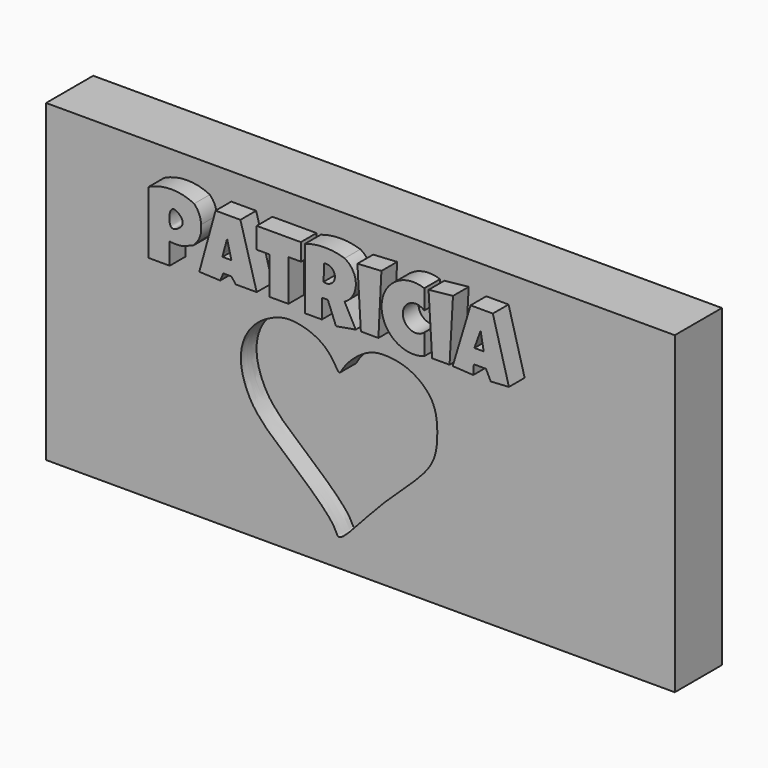
from build123d import *

# Parameters (mm, degrees)
F0_W     = 101.6
F0_H     = 50.8
F1_DEPTH = 9.525
F4_DEPTH = 3.175
F5_DEPTH = 3.175


with BuildPart() as f1:
    # F0 (on Front) → F1 (new body)
    with BuildSketch(Plane.XZ):
        with Locations((-38.6999379843, 14.3887783685)):
            Rectangle(F0_W, F0_H)
    extrude(amount=F1_DEPTH)

    # F3 (on face) + F2 (on face) → F4 (cut)
    with BuildSketch(Plane.XZ.offset(9.525)):
        with BuildLine():
            add(Edge.make_bspline(
                [(-42.0909300447, -6.5714931116), (-42.4807610896, -6.6146298176), (-42.6728355938, -4.4524287753), (-52.3789401122, 3.5382061268), (-54.5436755313, 5.6785529714), (-56.5896297361, 8.1275584369), (-58.3106042499, 12.4559638148), (-57.8488746613, 16.5301439803), (-55.9609232247, 19.218929192), (-54.0746732682, 20.6366692113), (-51.5727507412, 21.7582524777), (-49.1021273997, 21.8591405463), (-45.2526546869, 20.7508085371), (-43.0680290516, 18.4291824994), (-42.1245523865, 16.3808281575), (-41.5287440186, 17.7714615603), (-39.8380510934, 19.7470741149), (-37.2104184556, 21.5187218827), (-34.5948716342, 21.8258589817), (-30.6501668836, 21.2862711252), (-26.3794956783, 17.9351659653), (-26.1460151156, 12.5053890457), (-26.8806901132, 7.5306302148), (-35.3423253754, 0.9569661722), (-41.1792717696, -6.4706136779), (-42.0909300447, -6.5714931116)],
                knots=[0, 0, 0, 0, 0.0288960531, 0.107549476, 0.1485337662, 0.1863643241, 0.2339644945, 0.2784197131, 0.3176284008, 0.3516345561, 0.387499244, 0.4223069817, 0.4660157939, 0.5067911008, 0.5345117395, 0.5554673195, 0.5921534296, 0.6313285451, 0.6666609169, 0.7103014599, 0.7600198451, 0.809836179, 0.8571610875, 0.9324237351, 1, 1, 1, 1], degree=3))
        make_face()
    with BuildSketch(Plane.XZ.offset(9.525)):
        with BuildLine():
            ThreePointArc((-63.0340948701, 35.3532284498), (-66.712750122, 36.2098460173), (-70.3914053738, 35.3532284498))
            Line((-70.3914053738, 35.3532284498), (-70.3914053738, 25.2415314317))
            Line((-70.3914053738, 25.2415314317), (-66.9818148017, 25.2415314317))
            Line((-66.9818148017, 25.2415314317), (-66.9818148017, 28.7248265493))
            add(Edge.make_bspline(
                [(-66.9818148017, 28.7248265493), (-66.997670882, 28.7390337431), (-66.9987565917, 28.7552430796), (-66.9818148017, 28.7736989558)],
                knots=[0.6088529275, 0.6088529275, 0.6088529275, 0.6088529275, 0.6361468787, 0.6361468787, 0.6361468787, 0.6361468787], degree=3))
            add(Edge.make_bspline(
                [(-66.9818148017, 28.7736989558), (-66.7559653772, 29.0197325227), (-63.3263934979, 29.6650055844), (-63.0340948701, 29.5355394483)],
                knots=[0.6361468787, 0.6361468787, 0.6361468787, 0.6361468787, 1, 1, 1, 1], degree=3))
            ThreePointArc((-63.0340948701, 29.5355394483), (-62.0822740905, 30.9901296915), (-61.9259625673, 32.7214188874))
            ThreePointArc((-61.9259625673, 32.7214188874), (-62.2186639218, 34.1473721989), (-63.0340948701, 35.3532284498))
        make_face()
        with BuildLine():
            add(Edge.make_bspline(
                [(-66.712750122, 33.3038829267), (-67.1286849417, 32.8043568154), (-67.2116644607, 29.9890919673), (-65.160217958, 31.1745239569), (-64.6661746288, 32.1760356969), (-65.5430141226, 33.3373569707), (-66.4432822932, 33.6275062692), (-66.712750122, 33.3038829267)],
                knots=[0, 0, 0, 0, 0.2644645396, 0.466394541, 0.6364603912, 0.8286638149, 1, 1, 1, 1], degree=3))
        make_face(mode=Mode.SUBTRACT)
        with BuildLine():
            add(Edge.make_bspline(
                [(-66.9818148017, 28.7248265493), (-66.997670882, 28.7390337431), (-66.9987565917, 28.7552430796), (-66.9818148017, 28.7736989558)],
                knots=[0.6088529275, 0.6088529275, 0.6088529275, 0.6088529275, 0.6361468787, 0.6361468787, 0.6361468787, 0.6361468787], degree=3))
            Line((-66.9818148017, 28.7248265493), (-66.9818148017, 28.7736989558))
        make_face()
        with BuildLine():
            Line((-66.9818148017, 28.7736989558), (-66.9818148017, 28.7248265493))
            add(Edge.make_bspline(
                [(-63.0340948701, 29.5355394483), (-62.8455032323, 29.4520076478), (-64.8784455292, 28.7132768233), (-65.3108433974, 28.61822795), (-66.8762304273, 28.6302219785), (-66.9818148017, 28.7248265493)],
                knots=[0, 0, 0, 0, 0.2347587348, 0.4271046829, 0.6088529275, 0.6088529275, 0.6088529275, 0.6088529275], degree=3))
            add(Edge.make_bspline(
                [(-66.9818148017, 28.7736989558), (-66.7559653772, 29.0197325227), (-63.3263934979, 29.6650055844), (-63.0340948701, 29.5355394483)],
                knots=[0.6361468787, 0.6361468787, 0.6361468787, 0.6361468787, 1, 1, 1, 1], degree=3))
        make_face()
        with BuildLine():
            Line((-62.2029975057, 25.9341131896), (-58.8093437254, 25.7955957204))
            add(Edge.make_bspline(
                [(-58.8093437254, 25.7955957204), (-58.6477418741, 26.1880593995), (-58.4861400227, 26.5805230786), (-58.3245381713, 26.9729867578)],
                knots=[0, 0, 0, 0, 1.2732973259, 1.2732973259, 1.2732973259, 1.2732973259], degree=3))
            add(Edge.make_bspline(
                [(-58.3245381713, 26.9729867578), (-58.178326322, 26.9729867578), (-58.0321144727, 26.9729867578), (-57.8859026233, 26.9729867578)],
                knots=[0, 0, 0, 0, 0.438635548, 0.438635548, 0.438635548, 0.438635548], degree=3))
            add(Edge.make_bspline(
                [(-57.8859026233, 26.9729867578), (-57.5934789247, 26.9729867578), (-57.3010552261, 26.9729867578), (-57.0086315274, 26.9729867578)],
                knots=[0.438635548, 0.438635548, 0.438635548, 0.438635548, 1.3159066439, 1.3159066439, 1.3159066439, 1.3159066439], degree=3))
            Line((-57.0086315274, 26.9729867578), (-56.3127800373, 26.058562194))
            Line((-56.3127800373, 26.058562194), (-52.9223978519, 26.058562194))
            Line((-52.9223978519, 26.058562194), (-55.5542074144, 35.491745919))
            Line((-55.5542074144, 35.491745919), (-59.5711842179, 35.491745919))
            Line((-59.5711842179, 35.491745919), (-62.2029975057, 25.9341131896))
        make_face()
        Polygon((-58.3245381713, 29.834446554), (-57.701215148, 32.0980921388), (-57.0086315274, 29.2728566838), (-58.4531091154, 29.2728566838), align=None, mode=Mode.SUBTRACT)
        Polygon((-45.7940250635, 35.491745919), (-52.9223978519, 35.491745919), (-52.9223978519, 32.0980921388), (-50.8446507156, 32.0980921388), (-50.8446507156, 26.058562194), (-47.7972887456, 26.058562194), (-47.7972887456, 32.7214188874), (-45.7366742194, 32.7214188874), align=None)
        with BuildLine():
            Line((-45.0973589387, 32.7214188874), (-45.0973589387, 32.249447963))
            Line((-45.0973589387, 32.249447963), (-45.0973589387, 25.5878213793))
            Line((-45.0973589387, 25.5878213793), (-42.3951484263, 25.5878213793))
            Line((-42.3951484263, 25.5878213793), (-42.3951484263, 28.7044420838))
            Line((-42.3951484263, 28.7044420838), (-41.4255335927, 28.7044420838))
            Line((-41.4255335927, 28.7044420838), (-40.1096269488, 25.3800470382))
            Line((-40.1096269488, 25.3800470382), (-36.923751235, 25.9341131896))
            Line((-36.923751235, 25.9341131896), (-38.724463433, 29.3277651072))
            ThreePointArc((-38.724463433, 29.3277651072), (-36.8962226372, 32.4063114245), (-38.7128144503, 35.491745919))
            ThreePointArc((-38.7128144503, 35.491745919), (-41.9050866945, 36.0001631202), (-45.0973589387, 35.491745919))
            Line((-45.0973589387, 35.491745919), (-45.0973589387, 32.7214188874))
        make_face()
        with BuildLine():
            ThreePointArc((-42.0294776559, 33.6892232299), (-40.2842864848, 32.307135884), (-42.1123988926, 31.0367569327))
            Line((-42.1123988926, 31.0367569327), (-42.0294776559, 33.6892232299))
        make_face(mode=Mode.SUBTRACT)
        Polygon((-32.7682569623, 35.6302633882), (-36.64172894, 35.4057140911), (-36.0926501453, 25.9341131896), (-33.2530625165, 25.9341131896), align=None)
        with BuildLine():
            Line((-25.842435658, 32.249447963), (-25.842435658, 35.4224890471))
            ThreePointArc((-25.842435658, 35.4224890471), (-32.7464265149, 30.5709819749), (-25.7998574525, 25.7806386799))
            Line((-25.7998574525, 25.7806386799), (-25.842435658, 29.119990766))
            ThreePointArc((-25.842435658, 29.119990766), (-29.3052590166, 30.6847193645), (-25.842435658, 32.249447963))
        make_face()
        Polygon((-21.2021358311, 35.8380377293), (-25.1498539001, 35.4224890471), (-24.5957877487, 26.2111462653), (-24.5957877487, 25.864854455), (-21.7562001199, 25.864854455), align=None)
        Polygon((-18.3625482023, 35.4224890471), (-21.249768217, 25.8367194228), (-17.92419766, 25.6519659861), (-17.8378914941, 27.2054810336), (-15.8692523837, 27.2054810336), (-15.1074109599, 25.6519659861), (-12.1616536204, 25.8291545319), (-14.7611210123, 35.4224890471), align=None)
        Polygon((-17.7382381233, 29.5513621464), (-16.7399067432, 32.3629900813), (-16.2424072623, 29.5513621464), align=None, mode=Mode.SUBTRACT)
    extrude(amount=-F4_DEPTH, mode=Mode.SUBTRACT)


with BuildPart() as f5:
    # F2 (on face) → F5 (new body)
    with BuildSketch(Plane.XZ.offset(9.525)):
        with BuildLine():
            ThreePointArc((-63.0340948701, 35.3532284498), (-66.712750122, 36.2098460173), (-70.3914053738, 35.3532284498))
            Line((-70.3914053738, 35.3532284498), (-70.3914053738, 25.2415314317))
            Line((-70.3914053738, 25.2415314317), (-66.9818148017, 25.2415314317))
            Line((-66.9818148017, 25.2415314317), (-66.9818148017, 28.7248265493))
            add(Edge.make_bspline(
                [(-66.9818148017, 28.7248265493), (-66.997670882, 28.7390337431), (-66.9987565917, 28.7552430796), (-66.9818148017, 28.7736989558)],
                knots=[0.6088529275, 0.6088529275, 0.6088529275, 0.6088529275, 0.6361468787, 0.6361468787, 0.6361468787, 0.6361468787], degree=3))
            add(Edge.make_bspline(
                [(-66.9818148017, 28.7736989558), (-66.7559653772, 29.0197325227), (-63.3263934979, 29.6650055844), (-63.0340948701, 29.5355394483)],
                knots=[0.6361468787, 0.6361468787, 0.6361468787, 0.6361468787, 1, 1, 1, 1], degree=3))
            ThreePointArc((-63.0340948701, 29.5355394483), (-62.0822740905, 30.9901296915), (-61.9259625673, 32.7214188874))
            ThreePointArc((-61.9259625673, 32.7214188874), (-62.2186639218, 34.1473721989), (-63.0340948701, 35.3532284498))
        make_face()
        with BuildLine():
            add(Edge.make_bspline(
                [(-66.712750122, 33.3038829267), (-67.1286849417, 32.8043568154), (-67.2116644607, 29.9890919673), (-65.160217958, 31.1745239569), (-64.6661746288, 32.1760356969), (-65.5430141226, 33.3373569707), (-66.4432822932, 33.6275062692), (-66.712750122, 33.3038829267)],
                knots=[0, 0, 0, 0, 0.2644645396, 0.466394541, 0.6364603912, 0.8286638149, 1, 1, 1, 1], degree=3))
        make_face(mode=Mode.SUBTRACT)
        with BuildLine():
            add(Edge.make_bspline(
                [(-66.9818148017, 28.7248265493), (-66.997670882, 28.7390337431), (-66.9987565917, 28.7552430796), (-66.9818148017, 28.7736989558)],
                knots=[0.6088529275, 0.6088529275, 0.6088529275, 0.6088529275, 0.6361468787, 0.6361468787, 0.6361468787, 0.6361468787], degree=3))
            Line((-66.9818148017, 28.7248265493), (-66.9818148017, 28.7736989558))
        make_face()
        with BuildLine():
            Line((-66.9818148017, 28.7736989558), (-66.9818148017, 28.7248265493))
            add(Edge.make_bspline(
                [(-63.0340948701, 29.5355394483), (-62.8455032323, 29.4520076478), (-64.8784455292, 28.7132768233), (-65.3108433974, 28.61822795), (-66.8762304273, 28.6302219785), (-66.9818148017, 28.7248265493)],
                knots=[0, 0, 0, 0, 0.2347587348, 0.4271046829, 0.6088529275, 0.6088529275, 0.6088529275, 0.6088529275], degree=3))
            add(Edge.make_bspline(
                [(-66.9818148017, 28.7736989558), (-66.7559653772, 29.0197325227), (-63.3263934979, 29.6650055844), (-63.0340948701, 29.5355394483)],
                knots=[0.6361468787, 0.6361468787, 0.6361468787, 0.6361468787, 1, 1, 1, 1], degree=3))
        make_face()
    extrude(amount=F5_DEPTH)


with BuildPart() as f5b:
    # F2 (on face) → F5, piece 2 (new body)
    with BuildSketch(Plane.XZ.offset(9.525)):
        with BuildLine():
            Line((-62.2029975057, 25.9341131896), (-58.8093437254, 25.7955957204))
            add(Edge.make_bspline(
                [(-58.8093437254, 25.7955957204), (-58.6477418741, 26.1880593995), (-58.4861400227, 26.5805230786), (-58.3245381713, 26.9729867578)],
                knots=[0, 0, 0, 0, 1.2732973259, 1.2732973259, 1.2732973259, 1.2732973259], degree=3))
            add(Edge.make_bspline(
                [(-58.3245381713, 26.9729867578), (-58.178326322, 26.9729867578), (-58.0321144727, 26.9729867578), (-57.8859026233, 26.9729867578)],
                knots=[0, 0, 0, 0, 0.438635548, 0.438635548, 0.438635548, 0.438635548], degree=3))
            add(Edge.make_bspline(
                [(-57.8859026233, 26.9729867578), (-57.5934789247, 26.9729867578), (-57.3010552261, 26.9729867578), (-57.0086315274, 26.9729867578)],
                knots=[0.438635548, 0.438635548, 0.438635548, 0.438635548, 1.3159066439, 1.3159066439, 1.3159066439, 1.3159066439], degree=3))
            Line((-57.0086315274, 26.9729867578), (-56.3127800373, 26.058562194))
            Line((-56.3127800373, 26.058562194), (-52.9223978519, 26.058562194))
            Line((-52.9223978519, 26.058562194), (-55.5542074144, 35.491745919))
            Line((-55.5542074144, 35.491745919), (-59.5711842179, 35.491745919))
            Line((-59.5711842179, 35.491745919), (-62.2029975057, 25.9341131896))
        make_face()
        Polygon((-58.3245381713, 29.834446554), (-57.701215148, 32.0980921388), (-57.0086315274, 29.2728566838), (-58.4531091154, 29.2728566838), align=None, mode=Mode.SUBTRACT)
    extrude(amount=F5_DEPTH)


with BuildPart() as f5c:
    # F2 (on face) → F5, piece 3 (new body)
    with BuildSketch(Plane.XZ.offset(9.525)):
        Polygon((-45.7940250635, 35.491745919), (-52.9223978519, 35.491745919), (-52.9223978519, 32.0980921388), (-50.8446507156, 32.0980921388), (-50.8446507156, 26.058562194), (-47.7972887456, 26.058562194), (-47.7972887456, 32.7214188874), (-45.7366742194, 32.7214188874), align=None)
    extrude(amount=F5_DEPTH)


with BuildPart() as f5d:
    # F2 (on face) → F5, piece 4 (new body)
    with BuildSketch(Plane.XZ.offset(9.525)):
        with BuildLine():
            Line((-45.0973589387, 32.7214188874), (-45.0973589387, 32.249447963))
            Line((-45.0973589387, 32.249447963), (-45.0973589387, 25.5878213793))
            Line((-45.0973589387, 25.5878213793), (-42.3951484263, 25.5878213793))
            Line((-42.3951484263, 25.5878213793), (-42.3951484263, 28.7044420838))
            Line((-42.3951484263, 28.7044420838), (-41.4255335927, 28.7044420838))
            Line((-41.4255335927, 28.7044420838), (-40.1096269488, 25.3800470382))
            Line((-40.1096269488, 25.3800470382), (-36.923751235, 25.9341131896))
            Line((-36.923751235, 25.9341131896), (-38.724463433, 29.3277651072))
            ThreePointArc((-38.724463433, 29.3277651072), (-36.8962226372, 32.4063114245), (-38.7128144503, 35.491745919))
            ThreePointArc((-38.7128144503, 35.491745919), (-41.9050866945, 36.0001631202), (-45.0973589387, 35.491745919))
            Line((-45.0973589387, 35.491745919), (-45.0973589387, 32.7214188874))
        make_face()
        with BuildLine():
            ThreePointArc((-42.0294776559, 33.6892232299), (-40.2842864848, 32.307135884), (-42.1123988926, 31.0367569327))
            Line((-42.1123988926, 31.0367569327), (-42.0294776559, 33.6892232299))
        make_face(mode=Mode.SUBTRACT)
    extrude(amount=F5_DEPTH)


with BuildPart() as f5e:
    # F2 (on face) → F5, piece 5 (new body)
    with BuildSketch(Plane.XZ.offset(9.525)):
        Polygon((-32.7682569623, 35.6302633882), (-36.64172894, 35.4057140911), (-36.0926501453, 25.9341131896), (-33.2530625165, 25.9341131896), align=None)
    extrude(amount=F5_DEPTH)


with BuildPart() as f5f:
    # F2 (on face) → F5, piece 6 (new body)
    with BuildSketch(Plane.XZ.offset(9.525)):
        with BuildLine():
            Line((-25.842435658, 32.249447963), (-25.842435658, 35.4224890471))
            ThreePointArc((-25.842435658, 35.4224890471), (-32.7464265149, 30.5709819749), (-25.7998574525, 25.7806386799))
            Line((-25.7998574525, 25.7806386799), (-25.842435658, 29.119990766))
            ThreePointArc((-25.842435658, 29.119990766), (-29.3052590166, 30.6847193645), (-25.842435658, 32.249447963))
        make_face()
    extrude(amount=F5_DEPTH)


with BuildPart() as f5g:
    # F2 (on face) → F5, piece 7 (new body)
    with BuildSketch(Plane.XZ.offset(9.525)):
        Polygon((-21.2021358311, 35.8380377293), (-25.1498539001, 35.4224890471), (-24.5957877487, 26.2111462653), (-24.5957877487, 25.864854455), (-21.7562001199, 25.864854455), align=None)
    extrude(amount=F5_DEPTH)


with BuildPart() as f5h:
    # F2 (on face) → F5, piece 8 (new body)
    with BuildSketch(Plane.XZ.offset(9.525)):
        Polygon((-18.3625482023, 35.4224890471), (-21.249768217, 25.8367194228), (-17.92419766, 25.6519659861), (-17.8378914941, 27.2054810336), (-15.8692523837, 27.2054810336), (-15.1074109599, 25.6519659861), (-12.1616536204, 25.8291545319), (-14.7611210123, 35.4224890471), align=None)
        Polygon((-17.7382381233, 29.5513621464), (-16.7399067432, 32.3629900813), (-16.2424072623, 29.5513621464), align=None, mode=Mode.SUBTRACT)
    extrude(amount=F5_DEPTH)


solid = Compound([f1.part, f5.part, f5b.part, f5c.part, f5d.part, f5e.part, f5f.part, f5g.part, f5h.part])
